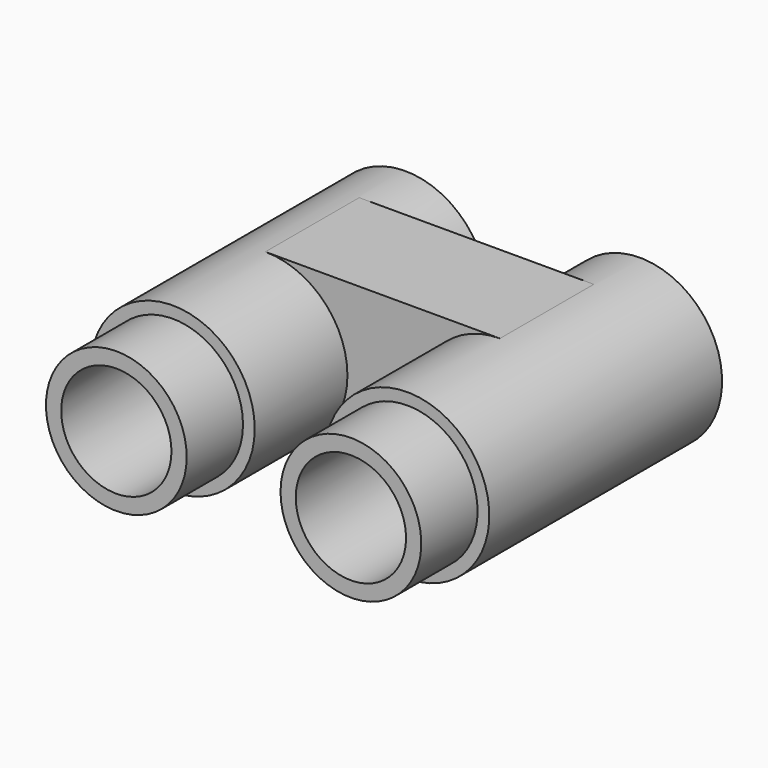
from build123d import *

# Parameters (mm, degrees)
F1_R          = 8.89
F1_R_2        = 5.969
F3_R          = 8.89
F3_R_2        = 7.62
F4_DEPTH      = 7.62
F5_DEPTH      = 25.4
F5_DEPTH_BACK = 25.4
F6_R          = 7.62
F7_R          = 7.62
F8_DEPTH      = 25.4
F0_W          = 25.4
F0_H          = 12.7
F9_DEPTH      = 8.89
F9_DEPTH_BACK = 8.89
F10_DEPTH     = 25.4


with BuildPart() as f2:
    # F2: sweep along a path in F0
    with BuildLine(Plane.XY) as f2_path:
        Line((0, 0), (0, 68.940756))
        ThreePointArc((0, 68.940756), (12.7, 81.640756), (25.4, 68.940756))
        Line((25.4, 68.940756), (25.4, 0))
    # F1 (on Front) → F2 (sweep)
    with BuildSketch(Plane.XZ):
        Circle(F1_R)
        Circle(F1_R_2, mode=Mode.SUBTRACT)
    sweep(path=f2_path.line)

    # F3 (on face) → F4 (cut)
    with BuildSketch(Plane.XZ):
        Circle(F3_R)
        Circle(F3_R_2, mode=Mode.SUBTRACT)
        with BuildLine():
            ThreePointArc((34.29, 0), (25.4, 8.89), (16.51, 0))
            ThreePointArc((16.51, 0), (25.4, -8.89), (34.29, 0))
        make_face()
        with BuildLine():
            ThreePointArc((33.02, 0), (25.4, -7.62), (17.78, 0))
            ThreePointArc((17.78, 0), (25.4, 7.62), (33.02, 0))
        make_face(mode=Mode.SUBTRACT)
    extrude(amount=-F4_DEPTH, mode=Mode.SUBTRACT)

    # F0 (on Top) → F5 (cut, two sides)
    with BuildSketch(Plane.XY) as f5_sk:
        with BuildLine():
            Line((-11.195335, 39.121766), (0, 39.121766))
            Line((0, 39.121766), (0, 68.940756))
            ThreePointArc((0, 68.940756), (3.719744, 77.921012), (12.7, 81.640756))
            ThreePointArc((12.7, 81.640756), (21.680256, 77.921012), (25.4, 68.940756))
            Line((25.4, 68.940756), (25.4, 39.121766))
            Line((25.4, 39.121766), (39.424099, 39.121766))
            Line((39.424099, 39.121766), (39.424099, 94.536379))
            Line((39.424099, 94.536379), (-11.195335, 94.536379))
            Line((-11.195335, 94.536379), (-11.195335, 39.121766))
        make_face()
        with BuildLine():
            Line((0, 68.940756), (0, 39.121766))
            Line((0, 39.121766), (12.7, 39.121766))
            Line((12.7, 39.121766), (12.7, 81.640756))
            ThreePointArc((12.7, 81.640756), (3.719744, 77.921012), (0, 68.940756))
        make_face()
        with BuildLine():
            Line((12.7, 39.121766), (25.4, 39.121766))
            Line((25.4, 39.121766), (25.4, 68.940756))
            ThreePointArc((25.4, 68.940756), (21.680256, 77.921012), (12.7, 81.640756))
            Line((12.7, 81.640756), (12.7, 39.121766))
        make_face()
    extrude(amount=F5_DEPTH, mode=Mode.SUBTRACT)
    extrude(f5_sk.sketch, amount=-F5_DEPTH_BACK, mode=Mode.SUBTRACT)

    # F6 (on face) + F7 (on face) → F8 (cut)
    with BuildSketch(Plane(origin=(0, 39.121766, 0), x_dir=(-1, 0, 0), z_dir=(0, 1, 0))):
        Circle(F6_R)
    with BuildSketch(Plane(origin=(0, 39.121766, 0), x_dir=(-1, 0, 0), z_dir=(0, 1, 0))):
        with Locations((-25.4, 0)):
            Circle(F7_R)
    extrude(amount=-F8_DEPTH, mode=Mode.SUBTRACT)

    # F0 (on Top) → F9 (join, two sides)
    with BuildSketch(Plane.XY) as f9_sk:
        with Locations((12.7, 26.517263)):
            Rectangle(F0_W, F0_H)
    extrude(amount=F9_DEPTH)
    extrude(f9_sk.sketch, amount=-F9_DEPTH_BACK)

    # F7 (on face) + F6 (on face) → F10 (cut)
    with BuildSketch(Plane(origin=(0, 39.121766, 0), x_dir=(-1, 0, 0), z_dir=(0, 1, 0))):
        with Locations((-25.4, 0)):
            Circle(F7_R)
    with BuildSketch(Plane(origin=(0, 39.121766, 0), x_dir=(-1, 0, 0), z_dir=(0, 1, 0))):
        Circle(F6_R)
    extrude(amount=-F10_DEPTH, mode=Mode.SUBTRACT)


solid = f2.part
